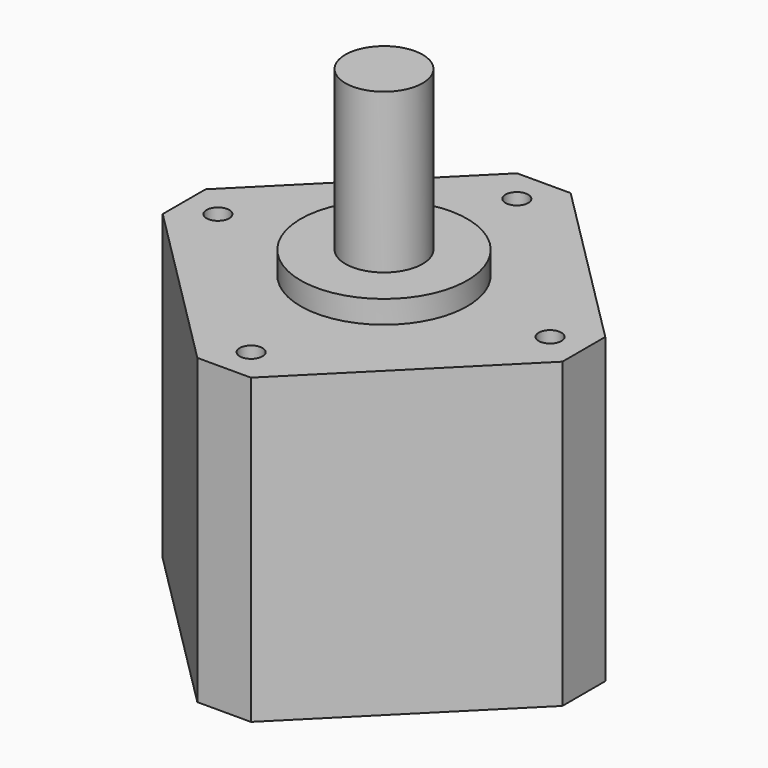
from build123d import *

# Parameters (mm, degrees)
SKETCH018_W             = 42.3
SKETCH018_H             = 42.3
PAD005_DEPTH            = 40
SKETCH019_R             = 11
PAD006_DEPTH            = 3
SKETCH020_R             = 5.1
PAD007_DEPTH            = 21
SKETCH022_R             = 1.5
POCKET011_DEPTH         = 5
CHAMFER001_SIZE         = 5
BODY006_PLACEMENT_ANGLE = 45


with BuildPart() as part:
    # Sketch018 → Pad005 (new body)
    with BuildSketch(Plane.XY):
        Rectangle(SKETCH018_W, SKETCH018_H)
    extrude(amount=PAD005_DEPTH)

    # Sketch019 (on Face6 of Pad005) → Pad006 (join)
    with BuildSketch(Plane.XY.offset(40)):
        Circle(SKETCH019_R)
    extrude(amount=PAD006_DEPTH)

    # Sketch020 (on Face8 of Pad006) → Pad007 (join)
    with BuildSketch(Plane.XY.offset(43)):
        Circle(SKETCH020_R)
    extrude(amount=PAD007_DEPTH)

    # Sketch022 (on Face5 of Pad007) → Pocket011 (cut)
    with BuildSketch(Plane.XY.offset(40)):
        with Locations((-15.5, 15.5)):
            Circle(SKETCH022_R)
        with Locations((15.5, 15.5)):
            Circle(SKETCH022_R)
        with Locations((15.5, -15.5)):
            Circle(SKETCH022_R)
        with Locations((-15.5, -15.5)):
            Circle(SKETCH022_R)
    extrude(amount=-POCKET011_DEPTH, mode=Mode.SUBTRACT)

    # Chamfer001
    chamfer001_edges = [part.edges().sort_by_distance(p)[0] for p in [
        (21.15, 21.15, 20),
        (21.15, -21.15, 20),
        (-21.15, 21.15, 20),
        (-21.15, -21.15, 20),
    ]]
    chamfer(chamfer001_edges, length=CHAMFER001_SIZE)


with BuildPart() as part_1:
    # Body006 placement: moved
    add(part.part.moved(Location((135.7398047638, -76.644724306, -61.1))).rotate(Axis((135.7398047638, -76.644724306, -61.1), (0, 0, -1)), BODY006_PLACEMENT_ANGLE))


solid = part_1.part
